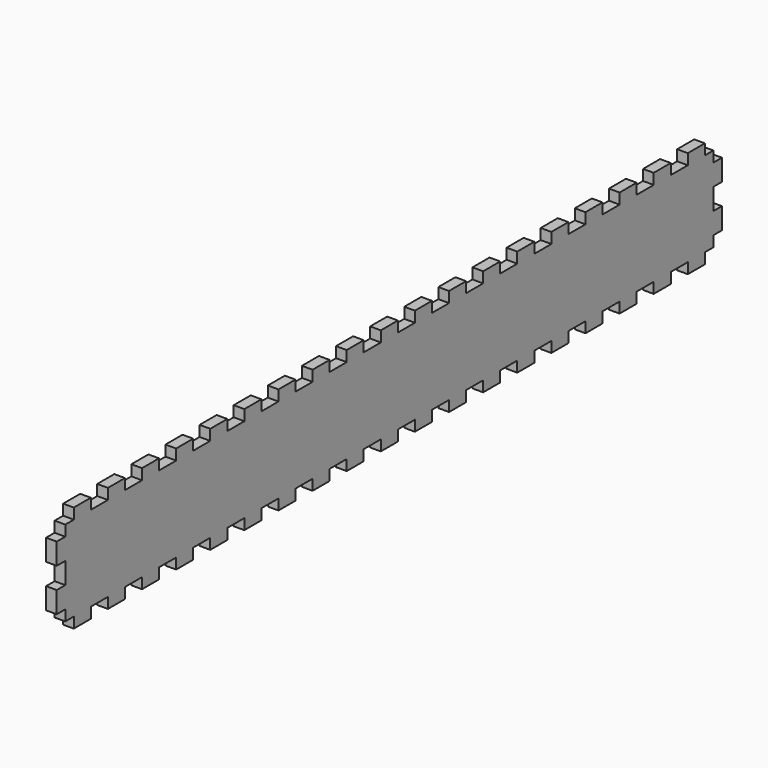
from build123d import *

# Parameters (mm, degrees)
F1_DEPTH = 2.5


with BuildPart() as f1:
    # F0 (on Right) → F1 (new body, symmetric)
    with BuildSketch(Plane.YZ):
        Polygon((-125, 25), (-125, 20), (-130, 20), (-130, 15), (-135, 15), (-135, 5), (-130, 5), (-130, -5), (-135, -5), (-135, -15), (-130, -15), (-130, -20), (-125, -20), (-125, -25), (-115, -25), (-115, -20), (-105, -20), (-105, -25), (-95, -25), (-95, -20), (-85, -20), (-85, -25), (-75, -25), (-75, -20), (-65, -20), (-65, -25), (-55, -25), (-55, -20), (-45, -20), (-45, -25), (-35, -25), (-35, -20), (-25, -20), (-25, -25), (-15, -25), (-15, -20), (-5, -20), (-5, -25), (5, -25), (5, -20), (15, -20), (15, -25), (25, -25), (25, -20), (35, -20), (35, -25), (45, -25), (45, -20), (55, -20), (55, -25), (65, -25), (65, -20), (75, -20), (75, -25), (85, -25), (85, -20), (95, -20), (95, -25), (105, -25), (105, -20), (115, -20), (115, -25), (125, -25), (125, -20), (135, -20), (135, -25), (145, -25), (145, -20), (155, -20), (155, -25), (165, -25), (165, -20), (175, -20), (175, -25), (185, -25), (185, -20), (195, -20), (195, -25), (205, -25), (205, -20), (215, -20), (215, -25), (225, -25), (225, -20), (235, -20), (235, -25), (245, -25), (245, -20), (250, -20), (250, -15), (255, -15), (255, -5), (250, -5), (250, 5), (255, 5), (255, 15), (250, 15), (250, 20), (245, 20), (245, 25), (235, 25), (235, 20), (225, 20), (225, 25), (215, 25), (215, 20), (205, 20), (205, 25), (195, 25), (195, 20), (185, 20), (185, 25), (175, 25), (175, 20), (165, 20), (165, 25), (155, 25), (155, 20), (145, 20), (145, 25), (135, 25), (135, 20), (125, 20), (125, 25), (115, 25), (115, 20), (105, 20), (105, 25), (95, 25), (95, 20), (85, 20), (85, 25), (75, 25), (75, 20), (65, 20), (65, 25), (55, 25), (55, 20), (45, 20), (45, 25), (35, 25), (35, 20), (25, 20), (25, 25), (15, 25), (15, 20), (5, 20), (5, 25), (-5, 25), (-5, 20), (-15, 20), (-15, 25), (-25, 25), (-25, 20), (-35, 20), (-35, 25), (-45, 25), (-45, 20), (-55, 20), (-55, 25), (-65, 25), (-65, 20), (-75, 20), (-75, 25), (-85, 25), (-85, 20), (-95, 20), (-95, 25), (-105, 25), (-105, 20), (-115, 20), (-115, 25), align=None)
    extrude(amount=F1_DEPTH, both=True)


solid = f1.part
